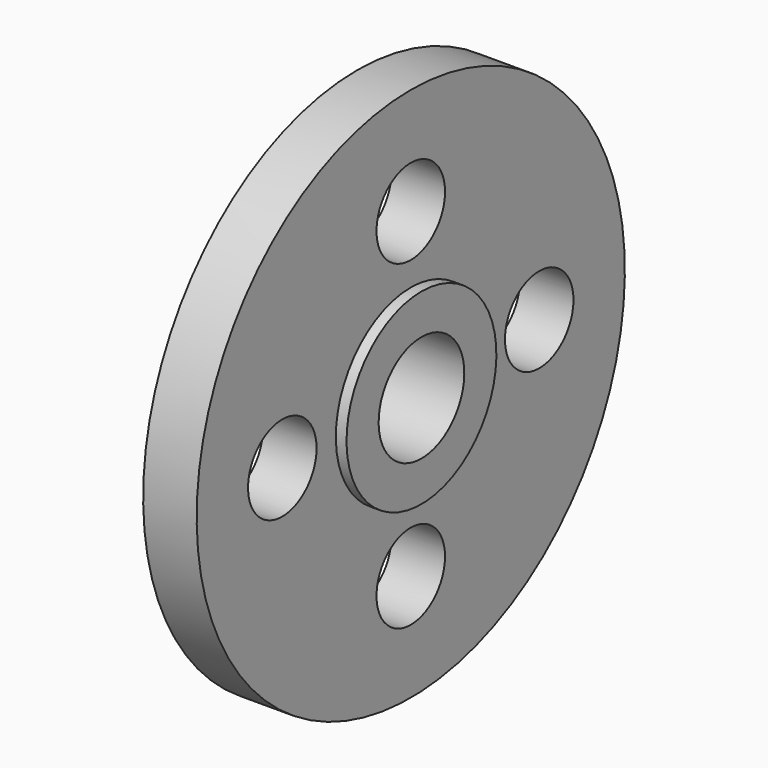
from build123d import *

# Parameters (mm, degrees)
F2_R     = 8
F3_DEPTH = 13.001


with BuildPart() as f1:
    # F0 (on Front) → F1 (revolve)
    with BuildSketch(Plane.XZ):
        Polygon((0, 15), (0, 10), (15, 10), (15, 17.5), (13, 17.5), (13, 50), (3, 50), (3, 15), align=None)
    revolve(axis=Axis((8.059816, 0, 0), (1, 0, 0)))

    # F2 (on face) → F3 (cut, through all)
    with BuildSketch(Plane.YZ.offset(13)):
        with Locations((0, 30)):
            Circle(F2_R)
        with Locations((-30, 0)):
            Circle(F2_R)
        with Locations((0, -30)):
            Circle(F2_R)
        with Locations((30, 0)):
            Circle(F2_R)
    extrude(amount=-F3_DEPTH, mode=Mode.SUBTRACT)


solid = f1.part
